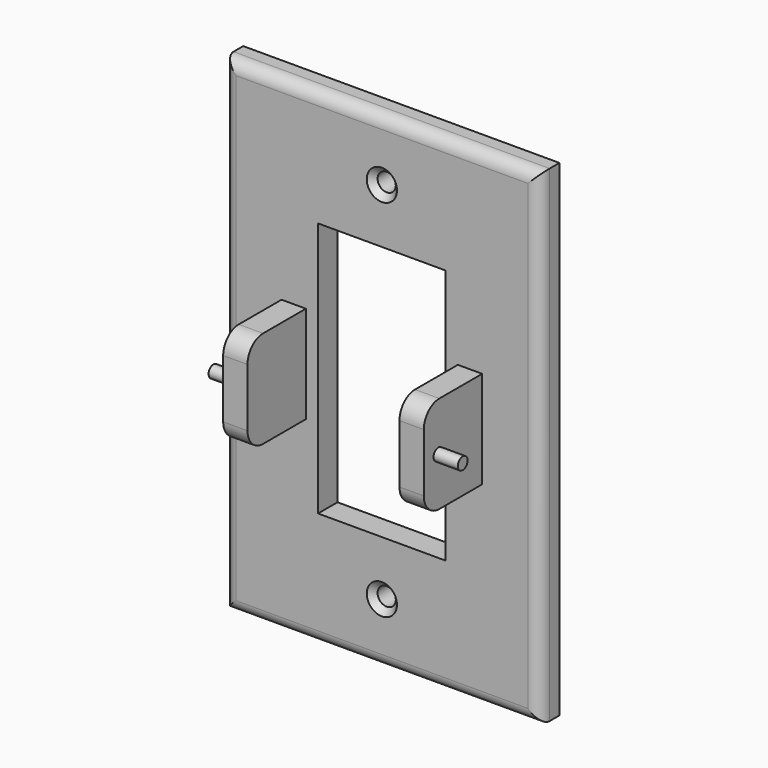
from build123d import *

# Parameters (mm, degrees)
F0_W      = 82.55
F0_H      = 127
F0_R      = 2.3749
F0_W_2    = 6.35
F0_H_2    = 25.4
F0_W_3    = 33.3248
F0_H_3    = 66.675
F1_DEPTH  = 6.35
F2_R      = 3.175
F3_SIZE   = 1.5748
F4_SIZE   = 1.5748
F5_DEPTH  = 25.4
F6_DEPTH  = 25.4
F7_R      = 5.08
F8_R      = 5.08
F9_R      = 5.08
F10_R     = 1.5875
F11_DEPTH = 6.35
F12_R     = 1.5875
F13_DEPTH = 6.35


with BuildPart() as f1:
    # F0 (on Front) → F1 (new body)
    with BuildSketch(Plane.XZ):
        Rectangle(F0_W, F0_H)
        with Locations((0, -47.6123)):
            Circle(F0_R, mode=Mode.SUBTRACT)
        with Locations((-23.0124, 0)):
            Rectangle(F0_W_2, F0_H_2, mode=Mode.SUBTRACT)
        Rectangle(F0_W_3, F0_H_3, mode=Mode.SUBTRACT)
        with Locations((23.0124, 0)):
            Rectangle(F0_W_2, F0_H_2, mode=Mode.SUBTRACT)
        with Locations((0, 47.6123)):
            Circle(F0_R, mode=Mode.SUBTRACT)
    extrude(amount=F1_DEPTH)

    # F2
    f2_edges = [f1.edges().sort_by_distance(p)[0] for p in [
        (0, -6.35, 63.5),
        (41.275, -6.35, 0),
        (0, -6.35, -63.5),
        (-41.275, -6.35, 0),
    ]]
    fillet(f2_edges, radius=F2_R)

    # F3
    f3_edges = [f1.edges().sort_by_distance(p)[0] for p in [
        (-2.3749, -6.35, 47.6123),
    ]]
    chamfer(f3_edges, length=F3_SIZE)

    # F4
    f4_edges = [f1.edges().sort_by_distance(p)[0] for p in [
        (-2.3749, -6.35, -47.6123),
    ]]
    chamfer(f4_edges, length=F4_SIZE)

    # F0 (on Front) → F5 (join)
    with BuildSketch(Plane.XZ):
        with Locations((-23.0124, 0)):
            Rectangle(F0_W_2, F0_H_2)
    extrude(amount=F5_DEPTH)

    # F0 (on Front) → F6 (join)
    with BuildSketch(Plane.XZ):
        with Locations((23.0124, 0)):
            Rectangle(F0_W_2, F0_H_2)
    extrude(amount=F6_DEPTH)

    # F7
    f7_edges = [f1.edges().sort_by_distance(p)[0] for p in [
        (-23.0124, -25.4, 12.7),
    ]]
    fillet(f7_edges, radius=F7_R)

    # F8
    f8_edges = [f1.edges().sort_by_distance(p)[0] for p in [
        (23.0124, -25.4, 12.7),
        (-23.0124, -25.4, -12.7),
    ]]
    fillet(f8_edges, radius=F8_R)

    # F9
    f9_edges = [f1.edges().sort_by_distance(p)[0] for p in [
        (23.0124, -25.4, -12.7),
    ]]
    fillet(f9_edges, radius=F9_R)

    # F10 (on face) → F11 (join)
    with BuildSketch(Plane(origin=(-26.1874, 0, 0), x_dir=(0, -1, 0), z_dir=(-1, 0, 0))):
        with Locations((20.6375, 0)):
            Circle(F10_R)
    extrude(amount=F11_DEPTH)

    # F12 (on face) → F13 (join)
    with BuildSketch(Plane.YZ.offset(26.1874)):
        with Locations((-20.6375, 0)):
            Circle(F12_R)
    extrude(amount=F13_DEPTH)


solid = f1.part
